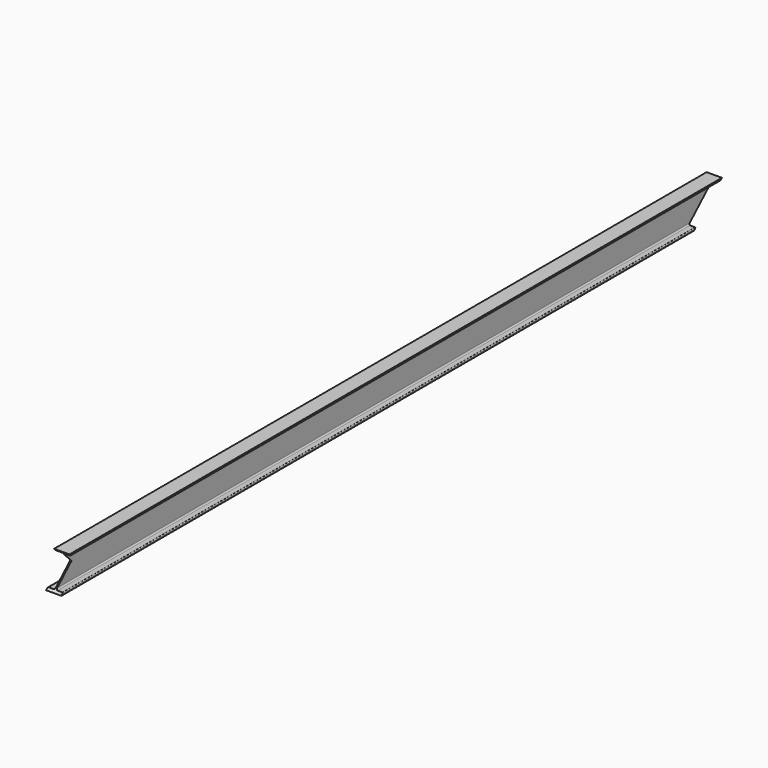
from build123d import *

# Parameters (mm, degrees)
F1_DEPTH      = 2250
F3_R          = 5.7
F4_DEPTH      = 33.001
F4_DEPTH_BACK = 33.001
F5_R          = 3.4


with BuildPart() as f1:
    # F0 (on Front) → F1 (new body, symmetric)
    with BuildSketch(Plane.XZ):
        Polygon((33, 70), (-33, 70), (-33, 61.4), (-2.85, 61.4), (-2.85, -61.4), (-33, -61.4), (-33, -70), (33, -70), (33, -61.4), (2.85, -61.4), (2.85, 61.4), (33, 61.4), align=None)
    extrude(amount=F1_DEPTH, both=True)

    # F3
    f3_edges = [f1.edges().sort_by_distance(p)[0] for p in [
        (2.85, 0, 61.4),
        (-2.85, 0, 61.4),
        (-2.85, 0, -61.4),
        (2.85, 0, -61.4),
    ]]
    fillet(f3_edges, radius=F3_R)

    # F2 (on Right) → F4 (cut, two sides)
    with BuildSketch(Plane.YZ) as f4_sk:
        Polygon((2250, 70), (423.9320166035, -1624.1670688611), (2250, -1624.1670688611), align=None)
        Polygon((-2250, -1624.1670688611), (423.9320166035, -1624.1670688611), (-1075.5892073123, -70), (-1316.3998283823, -70), (-1238.1949375756, 2.5559792041), (-1223.2751472361, 16.3980802087), (-1273.0052822386, 70), (-1300.7673281235, 70), (-2250, 70), align=None)
        Polygon((2744.5735228311, 942.9355427669), (2904.1863174438, 1091.019153595), (2607.1863174438, 1091.019153595), align=None)
    extrude(amount=-F4_DEPTH, mode=Mode.SUBTRACT)
    extrude(f4_sk.sketch, amount=F4_DEPTH_BACK, mode=Mode.SUBTRACT)

    # F5
    f5_edges = [f1.edges().sort_by_distance(p)[0] for p in [
        (33, 487.85198, 61.4),
        (-33, 487.85198, 61.4),
        (33, 400.619733, -61.4),
        (-33, 400.619733, -61.4),
    ]]
    fillet(f5_edges, radius=F5_R)


solid = f1.part
